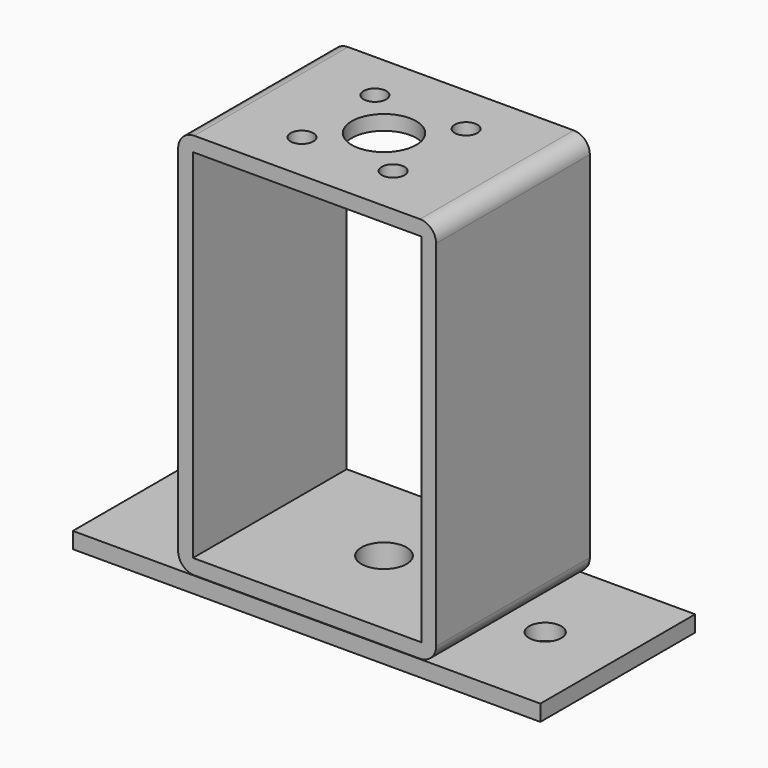
from build123d import *

# Parameters (mm, degrees)
F0_W     = 89.916
F0_H     = 140.716
F1_DEPTH = 37.846
F2_R     = 4.4704
F2_R_2   = 12.7
F3_DEPTH = 25.4
F4_W     = 184.15
F4_H     = 76.2
F4_W_2   = 88.9
F4_H_2   = 75.692
F5_DEPTH = 6.35
F6_R     = 6.35
F6_R_2   = 8.89
F7_DEPTH = 25.4


with BuildPart() as f1:
    # F0 (on Front) → F1 (new body, symmetric)
    with BuildSketch(Plane.XZ):
        with BuildLine():
            Line((44.45, 76.2), (-44.45, 76.2))
            ThreePointArc((-44.45, 76.2), (-48.9401280605, 74.3401280605), (-50.8, 69.85))
            Line((-50.8, 69.85), (-50.8, -69.85))
            ThreePointArc((-50.8, -69.85), (-48.9401280605, -74.3401280605), (-44.45, -76.2))
            Line((-44.45, -76.2), (44.45, -76.2))
            ThreePointArc((44.45, -76.2), (48.9401280605, -74.3401280605), (50.8, -69.85))
            Line((50.8, -69.85), (50.8, 69.85))
            ThreePointArc((50.8, 69.85), (48.9401280605, 74.3401280605), (44.45, 76.2))
        make_face()
        Rectangle(F0_W, F0_H, mode=Mode.SUBTRACT)
    extrude(amount=F1_DEPTH, both=True)

    # F2 (on face) → F3 (cut)
    with BuildSketch(Plane.XY.offset(76.2)):
        with Locations((-17.96034, 17.96034)):
            Circle(F2_R)
        with Locations((17.96034, 17.96034)):
            Circle(F2_R)
        with Locations((17.96034, -17.96034)):
            Circle(F2_R)
        with Locations((-17.96034, -17.96034)):
            Circle(F2_R)
        Circle(F2_R_2)
    extrude(amount=-F3_DEPTH, mode=Mode.SUBTRACT)

    # F4 (on face) → F5 (join)
    with BuildSketch(Plane(origin=(0, 0, -76.2), x_dir=(1, 0, 0), z_dir=(0, 0, -1))):
        Rectangle(F4_W, F4_H)
        Rectangle(F4_W_2, F4_H_2, mode=Mode.SUBTRACT)
        Rectangle(F4_W_2, F4_H_2)
    extrude(amount=F5_DEPTH)

    # F6 (on face) → F7 (cut)
    with BuildSketch(Plane(origin=(0, 0, -82.55), x_dir=(1, 0, 0), z_dir=(0, 0, -1))):
        with Locations((63.5, 0)):
            Circle(F6_R)
        Circle(F6_R_2)
        with Locations((-63.5, 0)):
            Circle(F6_R)
    extrude(amount=-F7_DEPTH, mode=Mode.SUBTRACT)


solid = f1.part
